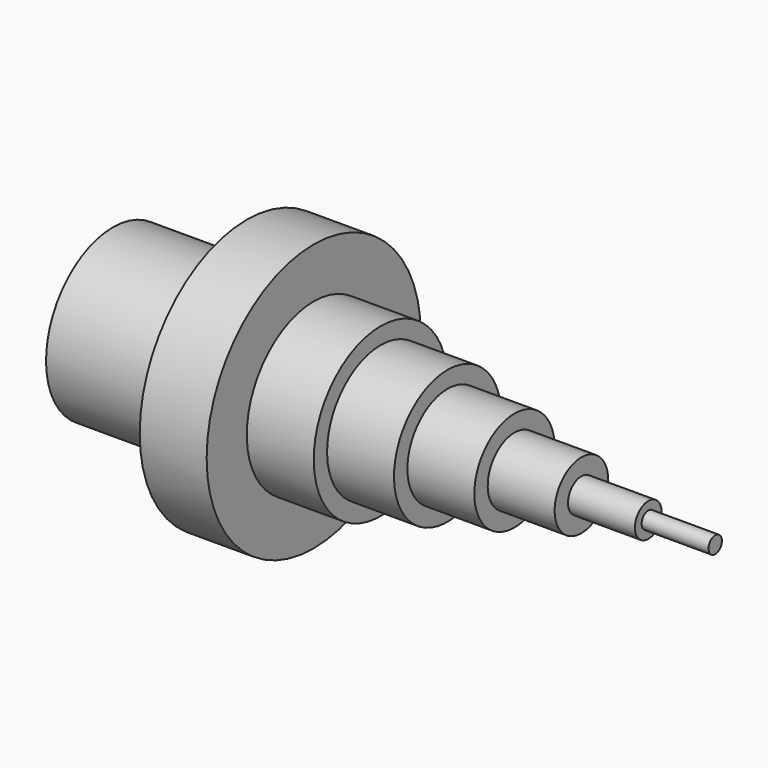
from build123d import *

# Parameters (mm, degrees)
F0_W     = 40
F0_H     = 25
F0_W_2   = 20
F0_H_2   = 2.5
F2_R     = 20
F3_DEPTH = 40


with BuildPart() as f1:
    # F0 (on Front) → F1 (revolve)
    with BuildSketch(Plane.XZ):
        Polygon((0, 20), (0, 0), (20, 0), (20, 15), (20, 20), align=None)
        Polygon((-20, 0), (0, 0), (0, 20), (0, 25), (-20, 25), align=None)
        Polygon((20, 15), (20, 0), (40, 0), (40, 10), (40, 15), align=None)
        Polygon((-40, 0), (-20, 0), (-20, 25), (-20, 40), (-40, 40), (-40, 25), align=None)
        Polygon((40, 10), (40, 0), (60, 0), (60, 5), (60, 10), align=None)
        with Locations((-60, 12.5)):
            Rectangle(F0_W, F0_H)
        Polygon((60, 5), (60, 0), (80, 0), (80, 2.5), (80, 5), align=None)
        with Locations((90, 1.25)):
            Rectangle(F0_W_2, F0_H_2)
    revolve(axis=Axis((0, 0, 0), (1, 0, 0)))

    # F2 (on face) → F3 (cut)
    with BuildSketch(Plane(origin=(-80, 0, 0), x_dir=(0, -1, 0), z_dir=(-1, 0, 0))):
        Circle(F2_R)
    extrude(amount=-F3_DEPTH, mode=Mode.SUBTRACT)


solid = f1.part
